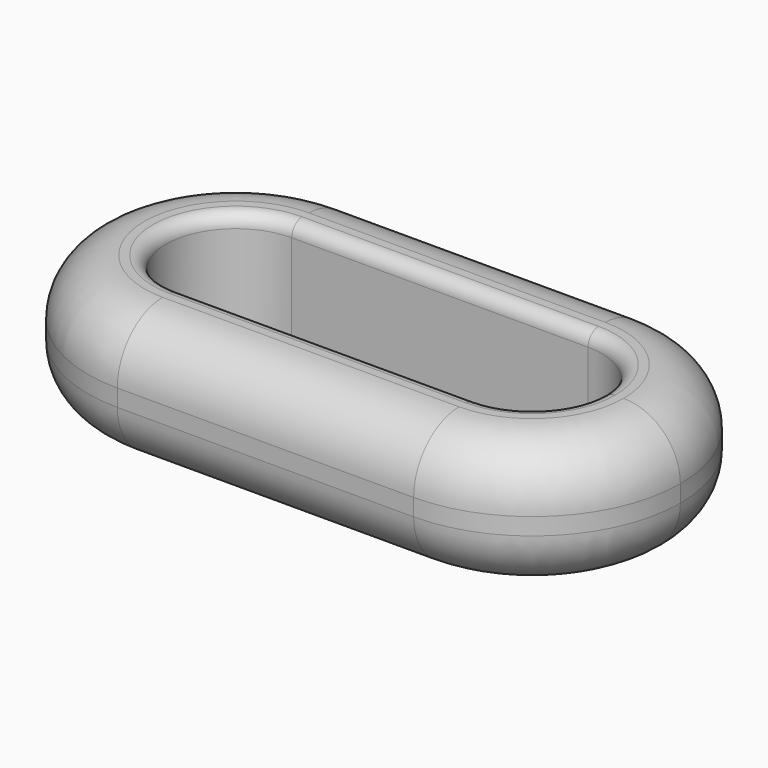
from build123d import *

# Parameters (mm, degrees)
F1_DEPTH = 12.7
F2_T     = -7.62
F3_R     = 5.5188922036
F4_R     = 1.27


with BuildPart() as f1:
    # F0 (on Top) → F1 (new body)
    with BuildSketch(Plane.XY):
        with BuildLine():
            Line((0, -28.8406666368), (0, 0))
            ThreePointArc((0, 0), (-14.4203333184, -14.4203333184), (0, -28.8406666368))
        make_face()
        with BuildLine():
            ThreePointArc((43.2635399552, -14.4203333184), (39.0399221132, -4.223617842), (28.8432066368, 0))
            Line((28.8432066368, 0), (28.8432066368, -28.8406666368))
            ThreePointArc((28.8432066368, -28.8406666368), (39.0399221132, -24.6170487948), (43.2635399552, -14.4203333184))
        make_face()
        with BuildLine():
            Line((28.8432066368, 0), (0, 0))
            ThreePointArc((0, 0), (10.1967154764, -4.223617842), (14.4203333184, -14.4203333184))
            ThreePointArc((14.4203333184, -14.4203333184), (10.1967154764, -24.6170487948), (0, -28.8406666368))
            Line((0, -28.8406666368), (28.8432066368, -28.8406666368))
            ThreePointArc((28.8432066368, -28.8406666368), (14.4228733184, -14.4203333184), (28.8432066368, 0))
        make_face()
        with BuildLine():
            ThreePointArc((14.4203333184, -14.4203333184), (10.1967154764, -4.223617842), (0, 0))
            Line((0, 0), (0, -28.8406666368))
            ThreePointArc((0, -28.8406666368), (10.1967154764, -24.6170487948), (14.4203333184, -14.4203333184))
        make_face()
        with BuildLine():
            Line((28.8432066368, -28.8406666368), (28.8432066368, 0))
            ThreePointArc((28.8432066368, 0), (14.4228733184, -14.4203333184), (28.8432066368, -28.8406666368))
        make_face()
    extrude(amount=F1_DEPTH)

    # F2
    f2_openings = [f1.faces().sort_by_distance(p)[0] for p in [
        (14.421603, -14.420333, 12.7),
        (14.421603, -14.420333, 0),
    ]]
    offset(amount=F2_T, openings=f2_openings)

    # F3
    f3_edges = [f1.edges().sort_by_distance(p)[0] for p in [
        (14.421603, -28.840667, 12.7),
        (14.421603, -28.840667, 0),
    ]]
    fillet(f3_edges, radius=F3_R)

    # F4
    f4_edges = [f1.edges().sort_by_distance(p)[0] for p in [
        (14.421603, -7.62, 0),
        (14.421603, -7.62, 12.7),
    ]]
    fillet(f4_edges, radius=F4_R)


solid = f1.part
